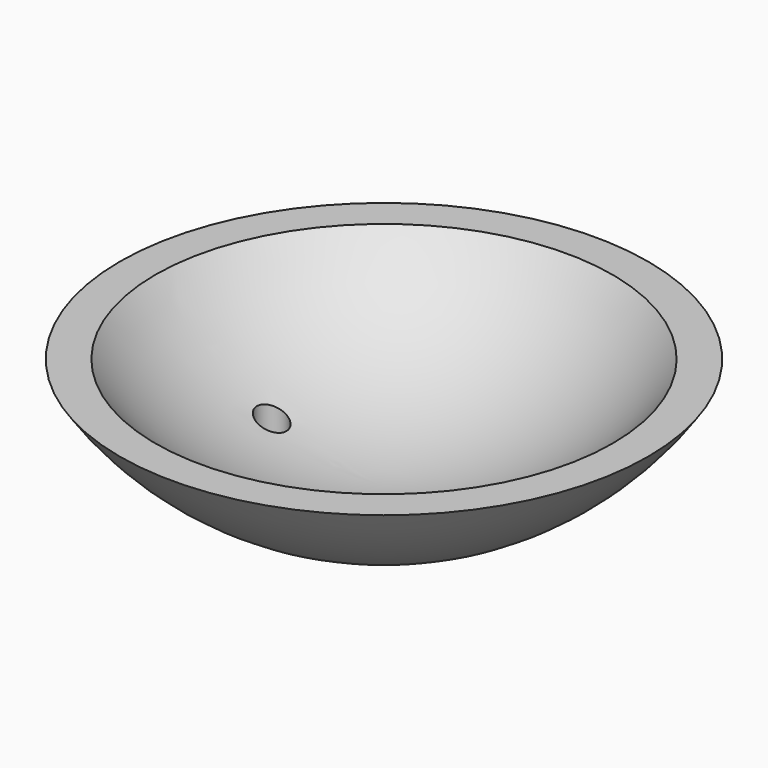
from build123d import *

# Parameters (mm, degrees)
F2_W     = 28.774573
F2_H     = 22.486091
F3_DEPTH = 12.7
F4_T     = -1
F5_R     = 0.510478
F6_DEPTH = 25.4


with BuildPart() as f1:
    # F0 (on Front) → F1 (revolve)
    with BuildSketch(Plane.XZ):
        with BuildLine():
            Line((0, 0), (0, 11))
            ThreePointArc((0, 11), (-11, 0), (0, -11))
            Line((0, -11), (0, 0))
        make_face()
    revolve(axis=Axis((0, 0, 0), (0, 0, -1)))

    # F2 (on Front) → F3 (cut, symmetric)
    with BuildSketch(Plane.XZ):
        with Locations((-1.024286, 5.125662)):
            Rectangle(F2_W, F2_H)
    extrude(amount=F3_DEPTH, both=True, mode=Mode.SUBTRACT)

    # F4
    f4_openings = [f1.faces().sort_by_distance(p)[0] for p in [
        (0, 0, -6.117383),
    ]]
    offset(amount=F4_T, openings=f4_openings)

    # F5 (on Top) → F6 (cut)
    with BuildSketch(Plane.XY):
        with Locations((-3.888461, 0)):
            Circle(F5_R)
    extrude(amount=-F6_DEPTH, mode=Mode.SUBTRACT)


solid = f1.part
